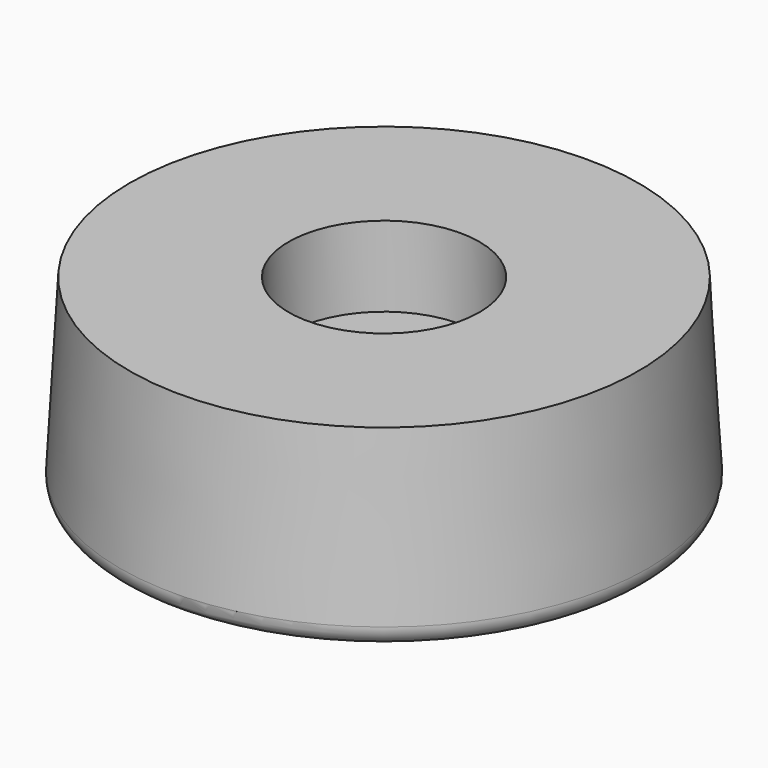
from build123d import *

# Parameters (mm, degrees)
F2_R     = 19.05
F3_DEPTH = 16.002


with BuildPart() as f1:
    # F0 (on Front) → F1 (revolve)
    with BuildSketch(Plane.XZ):
        with BuildLine():
            Line((0, -24.325253), (0, 13.774747))
            Line((0, 13.774747), (-50.8, 13.774747))
            Line((-50.8, 13.774747), (-52.69336, -20.303901))
            ThreePointArc((-52.69336, -20.303901), (-51.657019, -23.13354), (-48.889226, -24.325253))
            Line((-48.889226, -24.325253), (0, -24.325253))
        make_face()
    revolve(axis=Axis((0, 0, -5.275253), (0, 0, 1)))

    # F2 (on face) → F3 (cut)
    with BuildSketch(Plane.XY.offset(13.774747)):
        Circle(F2_R)
    extrude(amount=-F3_DEPTH, mode=Mode.SUBTRACT)


solid = f1.part
